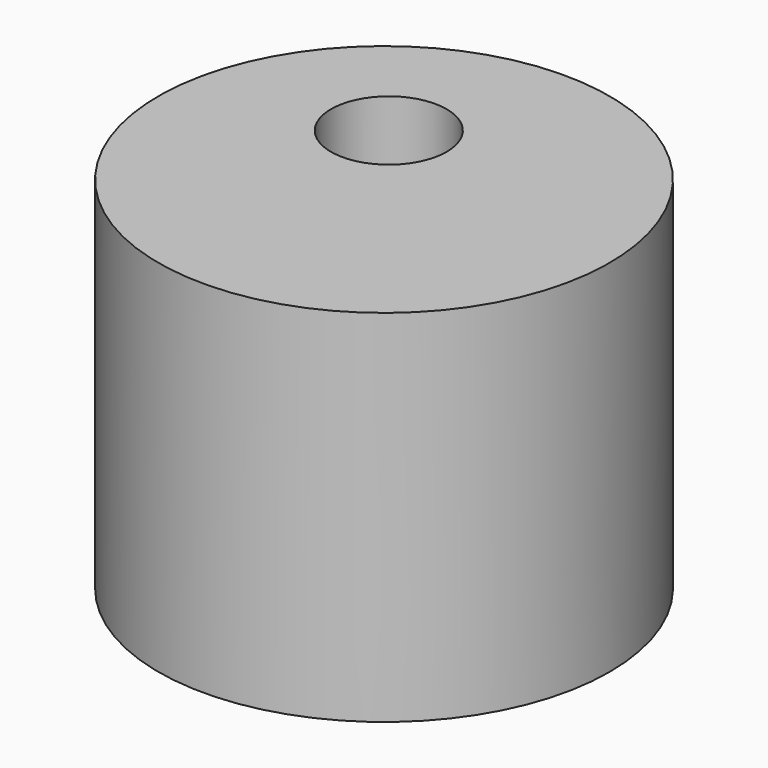
from build123d import *

# Parameters (mm, degrees)
F1_R     = 111.3933221295
F2_DEPTH = 25.4
F3_R     = 111.3933221295
F3_R_2   = 28.5570056478
F4_DEPTH = 25.4
F5_W     = 62.3087513292
F5_H     = 49.9088813265
F5_R     = 28.5570056478
F6_DEPTH = 127


with BuildPart() as f2:
    # F1 (on face) → F2 (new body)
    with BuildSketch(Plane.XY):
        Circle(F1_R)
    extrude(amount=F2_DEPTH)

    # F3 (on face) → F4 (join)
    with BuildSketch(Plane.XY.offset(25.4)):
        Circle(F3_R)
        with Locations((-24.1107493639, 33.1069529057)):
            Circle(F3_R_2, mode=Mode.SUBTRACT)
    extrude(amount=F4_DEPTH)

    # F5 (on face) → F6 (join)
    with BuildSketch(Plane.XY.offset(50.8)):
        with BuildLine():
            ThreePointArc((111.3933221295, 0), (-98.359674215, 52.2861999324), (62.3087513292, -92.3368383845))
            ThreePointArc((62.3087513292, -92.3368383845), (98.359674215, -52.2861999324), (111.3933221295, 0))
        make_face()
        with Locations((31.1543756646, -67.3823977212)):
            Rectangle(F5_W, F5_H, mode=Mode.SUBTRACT)
        with Locations((-24.1107493639, 33.1069529057)):
            Circle(F5_R, mode=Mode.SUBTRACT)
        with Locations((31.1543756646, -67.3823977212)):
            Rectangle(F5_W, F5_H)
    extrude(amount=F6_DEPTH)


solid = f2.part
